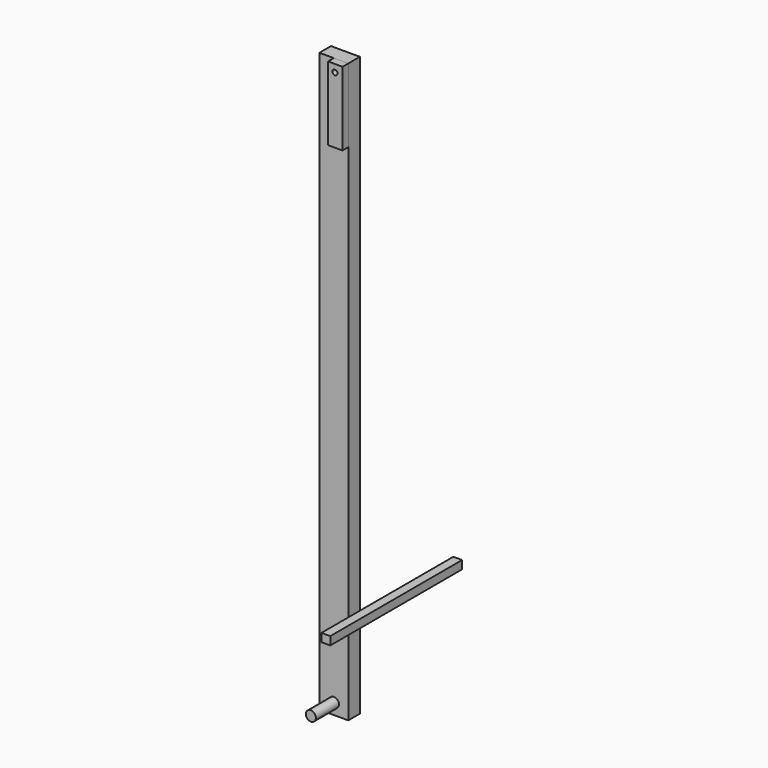
from build123d import *

# Parameters (mm, degrees)
F0_W     = 25.4
F0_H     = 508
F1_DEPTH = 12.7
F3_W     = 12.7
F3_H     = 64.754932
F3_R     = 2.210063
F4_DEPTH = 6.35
F5_R     = 4.390149
F6_DEPTH = 25.4
F7_W     = 7.729698
F7_H     = 7.230431
F8_DEPTH = 144.78


with BuildPart() as f1:
    # F0 (on Front) → F1 (new body)
    with BuildSketch(Plane.XZ):
        with Locations((-32.746281, 44.557519)):
            Rectangle(F0_W, F0_H)
    extrude(amount=F1_DEPTH)


with BuildPart() as f4:
    # F3 (on face) → F4 (new body)
    with BuildSketch(Plane.XZ.offset(12.7)):
        with Locations((-26.396281, 266.180053)):
            Rectangle(F3_W, F3_H)
        with Locations((-26.713759, 291.985899)):
            Circle(F3_R, mode=Mode.SUBTRACT)
    extrude(amount=F4_DEPTH)


with BuildPart() as f6:
    # F5 (on face) → F6 (new body)
    with BuildSketch(Plane.XZ.offset(12.7)):
        with Locations((-32.623317, -199.777067)):
            Circle(F5_R)
    extrude(amount=F6_DEPTH)


with BuildPart() as f8:
    # F7 (on Front) → F8 (new body)
    with BuildSketch(Plane.XZ):
        with Locations((65.918995, -64.982362)):
            Rectangle(F7_W, F7_H)
    extrude(amount=F8_DEPTH)


solid = Compound([f1.part, f4.part, f6.part, f8.part])
